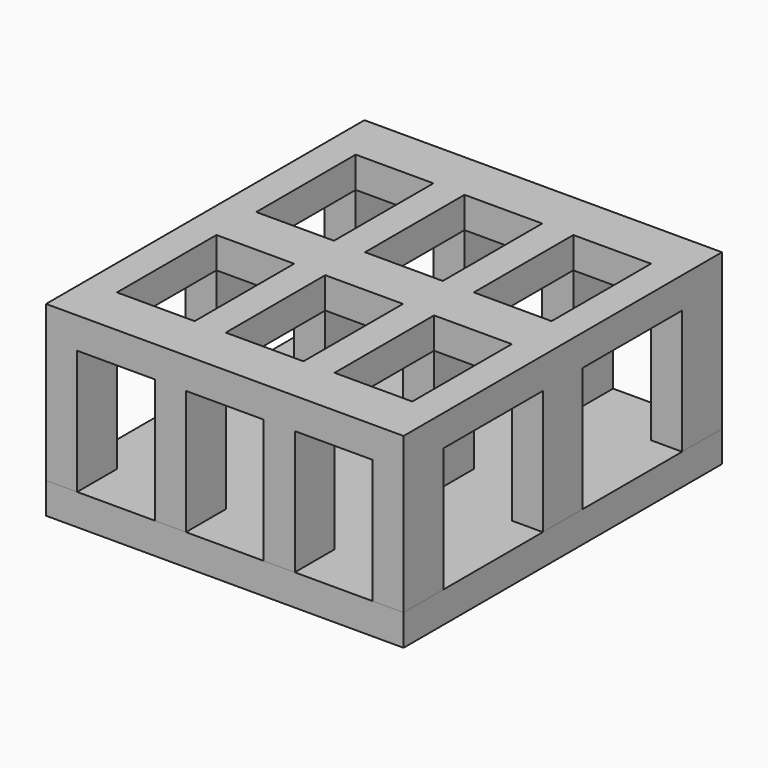
from build123d import *

# Parameters (mm, degrees)
F0_W     = 5
F0_H     = 3.2
F0_W_2   = 2
F0_H_2   = 8
F1_DEPTH = 2
F2_DEPTH = 10
F3_DEPTH = 8


with BuildPart() as f1:
    # F0 (on Top) → F1 (new body)
    with BuildSketch(Plane.XY):
        with Locations((-36.3, 16.8)):
            Rectangle(F0_W, F0_H)
        with Locations((-25.8, 28)):
            Rectangle(F0_W_2, F0_H)
        with Locations((-29.3, 33.6)):
            Rectangle(F0_W, F0_H_2)
        with Locations((-22.3, 33.6)):
            Rectangle(F0_W, F0_H_2)
        with Locations((-36.3, 28)):
            Rectangle(F0_W, F0_H)
        with Locations((-22.3, 16.8)):
            Rectangle(F0_W, F0_H)
        with Locations((-18.8, 22.4)):
            Rectangle(F0_W_2, F0_H_2)
        with Locations((-25.8, 16.8)):
            Rectangle(F0_W_2, F0_H)
        with Locations((-39.8, 22.4)):
            Rectangle(F0_W_2, F0_H_2)
        with Locations((-29.3, 22.4)):
            Rectangle(F0_W, F0_H_2)
        with Locations((-18.8, 16.8)):
            Rectangle(F0_W_2, F0_H)
        with Locations((-39.8, 16.8)):
            Rectangle(F0_W_2, F0_H)
        Polygon((-38.8, 40.8), (-38.8, 39.2), (-38.8, 37.6), (-33.8, 37.6), (-33.8, 39.2), (-33.8, 40.8), align=None)
        Polygon((-26.8, 40.8), (-31.8, 40.8), (-31.8, 39.2), (-31.8, 37.6), (-26.8, 37.6), (-26.8, 39.2), align=None)
        Polygon((-19.8, 40.8), (-24.8, 40.8), (-24.8, 39.2), (-24.8, 37.6), (-19.8, 37.6), (-19.8, 39.2), align=None)
        with Locations((-18.8, 33.6)):
            Rectangle(F0_W_2, F0_H_2)
        with Locations((-39.8, 33.6)):
            Rectangle(F0_W_2, F0_H_2)
        with Locations((-18.8, 28)):
            Rectangle(F0_W_2, F0_H)
        with Locations((-39.8, 28)):
            Rectangle(F0_W_2, F0_H)
        with Locations((-29.3, 28)):
            Rectangle(F0_W, F0_H)
        with Locations((-32.8, 33.6)):
            Rectangle(F0_W_2, F0_H_2)
        with Locations((-25.8, 33.6)):
            Rectangle(F0_W_2, F0_H_2)
        with Locations((-22.3, 22.4)):
            Rectangle(F0_W, F0_H_2)
        with Locations((-29.3, 16.8)):
            Rectangle(F0_W, F0_H)
        with Locations((-32.8, 22.4)):
            Rectangle(F0_W_2, F0_H_2)
        with Locations((-32.8, 28)):
            Rectangle(F0_W_2, F0_H)
        with Locations((-36.3, 33.6)):
            Rectangle(F0_W, F0_H_2)
        with Locations((-32.8, 16.8)):
            Rectangle(F0_W_2, F0_H)
        with Locations((-36.3, 22.4)):
            Rectangle(F0_W, F0_H_2)
        with Locations((-25.8, 22.4)):
            Rectangle(F0_W_2, F0_H_2)
        with Locations((-22.3, 28)):
            Rectangle(F0_W, F0_H)
        Polygon((-38.8, 37.6), (-38.8, 39.2), (-38.8, 40.8), (-40.8, 40.8), (-40.8, 37.6), align=None)
        Polygon((-17.8, 40.8), (-19.8, 40.8), (-19.8, 39.2), (-19.8, 37.6), (-17.8, 37.6), (-17.8, 39.2), align=None)
        Polygon((-31.8, 40.8), (-33.8, 40.8), (-33.8, 39.2), (-33.8, 37.6), (-31.8, 37.6), (-31.8, 39.2), align=None)
        Polygon((-24.8, 40.8), (-26.8, 40.8), (-26.8, 39.2), (-26.8, 37.6), (-24.8, 37.6), (-24.8, 39.2), align=None)
    extrude(amount=-F1_DEPTH)


with BuildPart() as f2:
    # F0 (on Top) → F2 (new body)
    with BuildSketch(Plane.XY):
        Polygon((-38.8, 37.6), (-38.8, 39.2), (-38.8, 40.8), (-40.8, 40.8), (-40.8, 37.6), align=None)
        Polygon((-38.8, 40.8), (-38.8, 39.2), (-38.8, 37.6), (-33.8, 37.6), (-33.8, 39.2), (-33.8, 40.8), align=None)
        Polygon((-26.8, 40.8), (-31.8, 40.8), (-31.8, 39.2), (-31.8, 37.6), (-26.8, 37.6), (-26.8, 39.2), align=None)
        Polygon((-31.8, 40.8), (-33.8, 40.8), (-33.8, 39.2), (-33.8, 37.6), (-31.8, 37.6), (-31.8, 39.2), align=None)
        Polygon((-24.8, 40.8), (-26.8, 40.8), (-26.8, 39.2), (-26.8, 37.6), (-24.8, 37.6), (-24.8, 39.2), align=None)
        Polygon((-19.8, 40.8), (-24.8, 40.8), (-24.8, 39.2), (-24.8, 37.6), (-19.8, 37.6), (-19.8, 39.2), align=None)
        Polygon((-17.8, 40.8), (-19.8, 40.8), (-19.8, 39.2), (-19.8, 37.6), (-17.8, 37.6), (-17.8, 39.2), align=None)
        with Locations((-18.8, 33.6)):
            Rectangle(F0_W_2, F0_H_2)
        with Locations((-18.8, 28)):
            Rectangle(F0_W_2, F0_H)
        with Locations((-18.8, 22.4)):
            Rectangle(F0_W_2, F0_H_2)
        with Locations((-18.8, 16.8)):
            Rectangle(F0_W_2, F0_H)
        with Locations((-22.3, 16.8)):
            Rectangle(F0_W, F0_H)
        with Locations((-25.8, 16.8)):
            Rectangle(F0_W_2, F0_H)
        with Locations((-29.3, 16.8)):
            Rectangle(F0_W, F0_H)
        with Locations((-32.8, 16.8)):
            Rectangle(F0_W_2, F0_H)
        with Locations((-36.3, 16.8)):
            Rectangle(F0_W, F0_H)
        with Locations((-39.8, 16.8)):
            Rectangle(F0_W_2, F0_H)
        with Locations((-39.8, 22.4)):
            Rectangle(F0_W_2, F0_H_2)
        with Locations((-39.8, 28)):
            Rectangle(F0_W_2, F0_H)
        with Locations((-39.8, 33.6)):
            Rectangle(F0_W_2, F0_H_2)
        with Locations((-36.3, 28)):
            Rectangle(F0_W, F0_H)
        with Locations((-32.8, 28)):
            Rectangle(F0_W_2, F0_H)
        with Locations((-32.8, 33.6)):
            Rectangle(F0_W_2, F0_H_2)
        with Locations((-32.8, 22.4)):
            Rectangle(F0_W_2, F0_H_2)
        with Locations((-29.3, 28)):
            Rectangle(F0_W, F0_H)
        with Locations((-22.3, 28)):
            Rectangle(F0_W, F0_H)
        with Locations((-25.8, 28)):
            Rectangle(F0_W_2, F0_H)
        with Locations((-25.8, 33.6)):
            Rectangle(F0_W_2, F0_H_2)
        with Locations((-25.8, 22.4)):
            Rectangle(F0_W_2, F0_H_2)
    extrude(amount=F2_DEPTH)

    # F0 (on Top) → F3 (cut)
    with BuildSketch(Plane.XY):
        with Locations((-39.8, 33.6)):
            Rectangle(F0_W_2, F0_H_2)
        Polygon((-38.8, 40.8), (-38.8, 39.2), (-38.8, 37.6), (-33.8, 37.6), (-33.8, 39.2), (-33.8, 40.8), align=None)
        Polygon((-26.8, 40.8), (-31.8, 40.8), (-31.8, 39.2), (-31.8, 37.6), (-26.8, 37.6), (-26.8, 39.2), align=None)
        Polygon((-19.8, 40.8), (-24.8, 40.8), (-24.8, 39.2), (-24.8, 37.6), (-19.8, 37.6), (-19.8, 39.2), align=None)
        with Locations((-18.8, 33.6)):
            Rectangle(F0_W_2, F0_H_2)
        with Locations((-18.8, 22.4)):
            Rectangle(F0_W_2, F0_H_2)
        with Locations((-25.8, 22.4)):
            Rectangle(F0_W_2, F0_H_2)
        with Locations((-32.8, 22.4)):
            Rectangle(F0_W_2, F0_H_2)
        with Locations((-39.8, 22.4)):
            Rectangle(F0_W_2, F0_H_2)
        with Locations((-36.3, 16.8)):
            Rectangle(F0_W, F0_H)
        with Locations((-29.3, 16.8)):
            Rectangle(F0_W, F0_H)
        with Locations((-22.3, 16.8)):
            Rectangle(F0_W, F0_H)
        with Locations((-22.3, 28)):
            Rectangle(F0_W, F0_H)
        with Locations((-29.3, 28)):
            Rectangle(F0_W, F0_H)
        with Locations((-36.3, 28)):
            Rectangle(F0_W, F0_H)
        with Locations((-32.8, 33.6)):
            Rectangle(F0_W_2, F0_H_2)
        with Locations((-25.8, 33.6)):
            Rectangle(F0_W_2, F0_H_2)
    extrude(amount=F3_DEPTH, mode=Mode.SUBTRACT)


solid = Compound([f1.part, f2.part])
